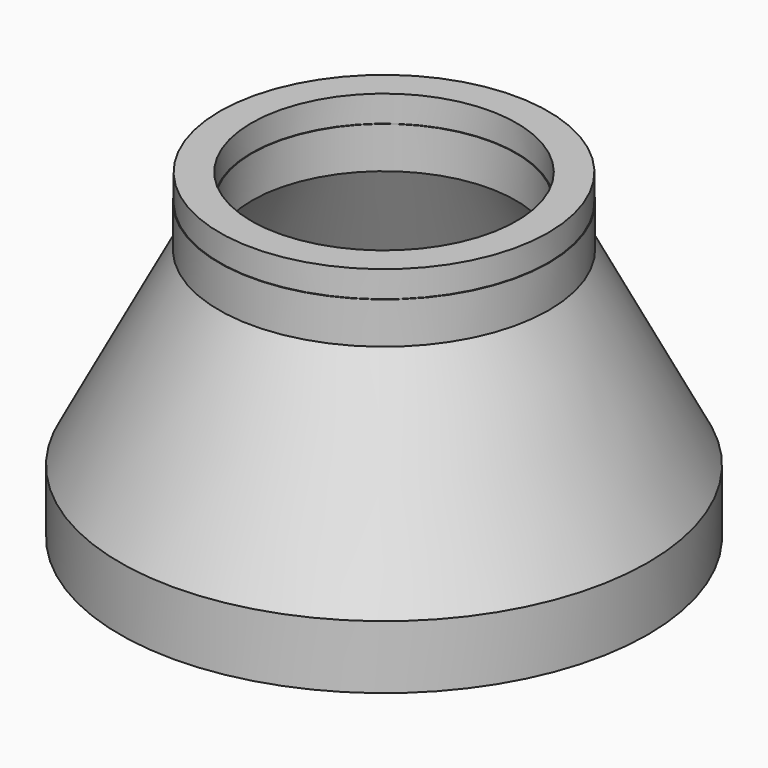
from build123d import *


with BuildPart() as f1:
    # F0 (on Front) → F1 (revolve)
    with BuildSketch(Plane.XZ):
        Polygon((-351, -248.865593), (-350, -248.865593), (-350, -152.865593), (-200, 135.134407), (-200, 198.134407), (-201, 198.134407), (-201, 238.134407), (-249, 238.134407), (-249, 198.134407), (-250, 198.134407), (-250, 135.134407), (-400, -152.865593), (-400, -248.865593), (-399, -248.865593), (-399, -208.865593), (-351, -208.865593), align=None)
    revolve(axis=Axis((0, 0, -0.829662), (0, 0, -1)))


solid = f1.part
